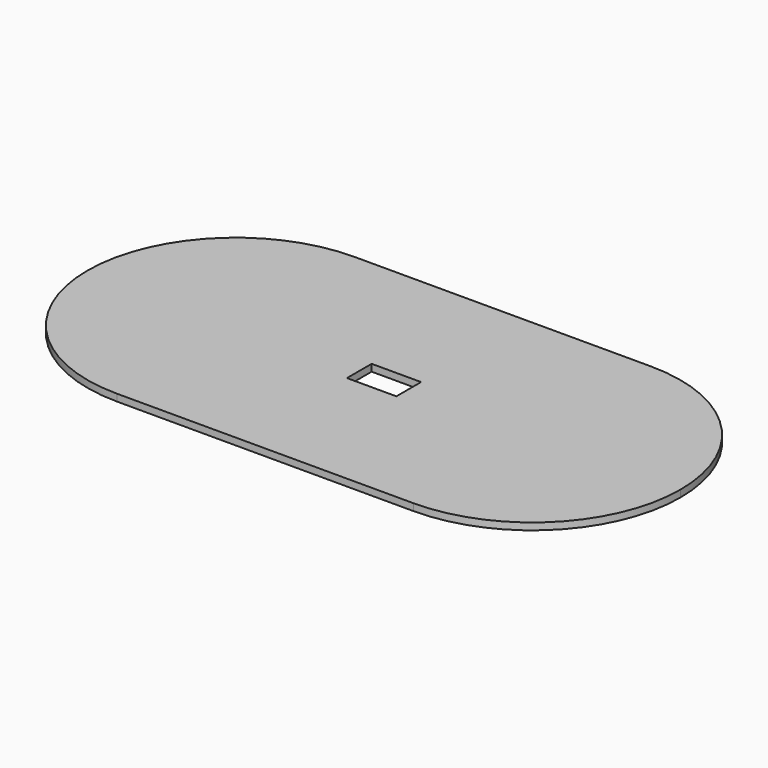
from build123d import *

# Parameters (mm, degrees)
F0_W     = 203.2
F0_H     = 127
F1_DEPTH = 28.575


with BuildPart() as f1:
    # F0 (on Top) → F1 (new body)
    with BuildSketch(Plane.XY):
        with BuildLine():
            Line((609.6, 609.6), (-609.6, 609.6))
            ThreePointArc((-609.6, 609.6), (-1040.652294, 431.052294), (-1219.2, 0))
            ThreePointArc((-1219.2, 0), (-1040.652294, -431.052294), (-609.6, -609.6))
            Line((-609.6, -609.6), (609.6, -609.6))
            ThreePointArc((609.6, -609.6), (1040.652294, -431.052294), (1219.2, 0))
            ThreePointArc((1219.2, 0), (1040.652294, 431.052294), (609.6, 609.6))
        make_face()
        Rectangle(F0_W, F0_H, mode=Mode.SUBTRACT)
    extrude(amount=F1_DEPTH)


solid = f1.part
